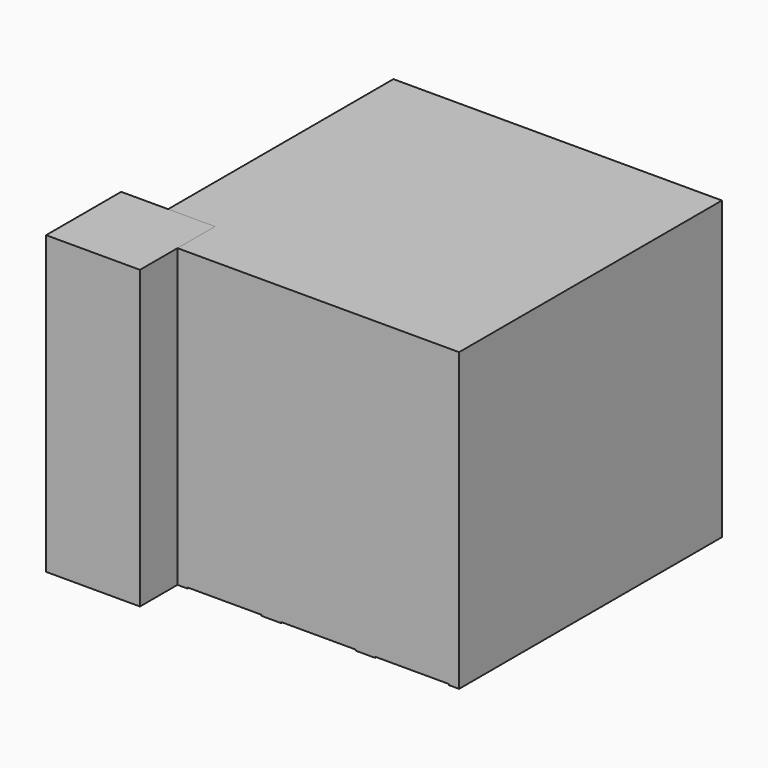
from build123d import *

# Parameters (mm, degrees)
CYLINDER017_R     = 0.6
CYLINDER017_DEPTH = 0.04
CYLINDER018_R     = 0.6
CYLINDER018_DEPTH = 0.04
CYLINDER019_R     = 0.6
CYLINDER019_DEPTH = 0.04
CYLINDER020_R     = 0.6
CYLINDER020_DEPTH = 0.04
BOX013_W          = 1.8
BOX013_H          = 3
BOX013_DEPTH      = 0.04
BOX012_W          = 3
BOX012_H          = 1.8
BOX012_DEPTH      = 0.04
CYLINDER021_R     = 0.6
CYLINDER021_DEPTH = 0.04
CYLINDER022_R     = 0.6
CYLINDER022_DEPTH = 0.04
CYLINDER023_R     = 0.6
CYLINDER023_DEPTH = 0.04
CYLINDER024_R     = 0.6
CYLINDER024_DEPTH = 0.04
BOX015_W          = 1.8
BOX015_H          = 3
BOX015_DEPTH      = 0.04
BOX014_W          = 3
BOX014_H          = 1.8
BOX014_DEPTH      = 0.04
CYLINDER025_R     = 0.6
CYLINDER025_DEPTH = 0.04
CYLINDER026_R     = 0.6
CYLINDER026_DEPTH = 0.04
CYLINDER027_R     = 0.6
CYLINDER027_DEPTH = 0.04
CYLINDER028_R     = 0.6
CYLINDER028_DEPTH = 0.04
BOX017_W          = 1.8
BOX017_H          = 3
BOX017_DEPTH      = 0.04
BOX016_W          = 3
BOX016_H          = 1.8
BOX016_DEPTH      = 0.04
CYLINDER029_R     = 0.6
CYLINDER029_DEPTH = 0.04
CYLINDER030_R     = 0.6
CYLINDER030_DEPTH = 0.04
CYLINDER031_R     = 0.6
CYLINDER031_DEPTH = 0.04
CYLINDER032_R     = 0.6
CYLINDER032_DEPTH = 0.04
BOX019_W          = 1.8
BOX019_H          = 3
BOX019_DEPTH      = 0.04
BOX018_W          = 3
BOX018_H          = 1.8
BOX018_DEPTH      = 0.04
CYLINDER033_R     = 0.6
CYLINDER033_DEPTH = 0.04
CYLINDER034_R     = 0.6
CYLINDER034_DEPTH = 0.04
CYLINDER035_R     = 0.6
CYLINDER035_DEPTH = 0.04
CYLINDER036_R     = 0.6
CYLINDER036_DEPTH = 0.04
BOX021_W          = 1.8
BOX021_H          = 3
BOX021_DEPTH      = 0.04
BOX020_W          = 3
BOX020_H          = 1.8
BOX020_DEPTH      = 0.04
CYLINDER037_R     = 0.6
CYLINDER037_DEPTH = 0.04
CYLINDER038_R     = 0.6
CYLINDER038_DEPTH = 0.04
CYLINDER039_R     = 0.6
CYLINDER039_DEPTH = 0.04
CYLINDER040_R     = 0.6
CYLINDER040_DEPTH = 0.04
BOX023_W          = 1.8
BOX023_H          = 3
BOX023_DEPTH      = 0.04
BOX022_W          = 3
BOX022_H          = 1.8
BOX022_DEPTH      = 0.04
CYLINDER041_R     = 0.6
CYLINDER041_DEPTH = 0.04
CYLINDER042_R     = 0.6
CYLINDER042_DEPTH = 0.04
CYLINDER043_R     = 0.6
CYLINDER043_DEPTH = 0.04
CYLINDER044_R     = 0.6
CYLINDER044_DEPTH = 0.04
BOX025_W          = 1.8
BOX025_H          = 3
BOX025_DEPTH      = 0.04
BOX024_W          = 3
BOX024_H          = 1.8
BOX024_DEPTH      = 0.04
CYLINDER045_R     = 0.6
CYLINDER045_DEPTH = 0.04
CYLINDER046_R     = 0.6
CYLINDER046_DEPTH = 0.04
CYLINDER047_R     = 0.6
CYLINDER047_DEPTH = 0.04
CYLINDER048_R     = 0.6
CYLINDER048_DEPTH = 0.04
BOX027_W          = 1.8
BOX027_H          = 3
BOX027_DEPTH      = 0.04
BOX026_W          = 3
BOX026_H          = 1.8
BOX026_DEPTH      = 0.04
CYLINDER049_R     = 0.6
CYLINDER049_DEPTH = 0.04
CYLINDER050_R     = 0.6
CYLINDER050_DEPTH = 0.04
CYLINDER051_R     = 0.6
CYLINDER051_DEPTH = 0.04
CYLINDER052_R     = 0.6
CYLINDER052_DEPTH = 0.04
BOX029_W          = 1.8
BOX029_H          = 3
BOX029_DEPTH      = 0.04
BOX028_W          = 3
BOX028_H          = 1.8
BOX028_DEPTH      = 0.04
CYLINDER053_R     = 0.6
CYLINDER053_DEPTH = 0.04
CYLINDER054_R     = 0.6
CYLINDER054_DEPTH = 0.04
CYLINDER055_R     = 0.6
CYLINDER055_DEPTH = 0.04
CYLINDER056_R     = 0.6
CYLINDER056_DEPTH = 0.04
BOX031_W          = 1.8
BOX031_H          = 3
BOX031_DEPTH      = 0.04
BOX030_W          = 3
BOX030_H          = 1.8
BOX030_DEPTH      = 0.04
CYLINDER057_R     = 0.6
CYLINDER057_DEPTH = 0.04
CYLINDER058_R     = 0.6
CYLINDER058_DEPTH = 0.04
CYLINDER059_R     = 0.6
CYLINDER059_DEPTH = 0.04
CYLINDER060_R     = 0.6
CYLINDER060_DEPTH = 0.04
BOX033_W          = 1.8
BOX033_H          = 3
BOX033_DEPTH      = 0.04
BOX032_W          = 3
BOX032_H          = 1.8
BOX032_DEPTH      = 0.04
CYLINDER061_R     = 0.6
CYLINDER061_DEPTH = 0.04
CYLINDER062_R     = 0.6
CYLINDER062_DEPTH = 0.04
CYLINDER063_R     = 0.6
CYLINDER063_DEPTH = 0.04
CYLINDER064_R     = 0.6
CYLINDER064_DEPTH = 0.04
BOX035_W          = 1.8
BOX035_H          = 3
BOX035_DEPTH      = 0.04
BOX034_W          = 3
BOX034_H          = 1.8
BOX034_DEPTH      = 0.04
CYLINDER065_R     = 0.6
CYLINDER065_DEPTH = 0.04
CYLINDER066_R     = 0.6
CYLINDER066_DEPTH = 0.04
CYLINDER067_R     = 0.6
CYLINDER067_DEPTH = 0.04
CYLINDER068_R     = 0.6
CYLINDER068_DEPTH = 0.04
BOX037_W          = 1.8
BOX037_H          = 3
BOX037_DEPTH      = 0.04
BOX036_W          = 3
BOX036_H          = 1.8
BOX036_DEPTH      = 0.04
CYLINDER069_R     = 0.6
CYLINDER069_DEPTH = 0.04
CYLINDER070_R     = 0.6
CYLINDER070_DEPTH = 0.04
CYLINDER071_R     = 0.6
CYLINDER071_DEPTH = 0.04
CYLINDER072_R     = 0.6
CYLINDER072_DEPTH = 0.04
BOX039_W          = 1.8
BOX039_H          = 3
BOX039_DEPTH      = 0.04
BOX038_W          = 3
BOX038_H          = 1.8
BOX038_DEPTH      = 0.04
CYLINDER073_R     = 0.6
CYLINDER073_DEPTH = 0.04
CYLINDER074_R     = 0.6
CYLINDER074_DEPTH = 0.04
CYLINDER075_R     = 0.6
CYLINDER075_DEPTH = 0.04
CYLINDER076_R     = 0.6
CYLINDER076_DEPTH = 0.04
BOX041_W          = 1.8
BOX041_H          = 3
BOX041_DEPTH      = 0.04
BOX040_W          = 3
BOX040_H          = 1.8
BOX040_DEPTH      = 0.04
BOX002_W          = 15.2
BOX002_H          = 15.2
BOX002_DEPTH      = 0.04
CYLINDER012_R     = 0.6
CYLINDER012_DEPTH = 0.04
CYLINDER013_R     = 0.6
CYLINDER013_DEPTH = 0.04
CYLINDER014_R     = 0.6
CYLINDER014_DEPTH = 0.04
CYLINDER016_R     = 0.6
CYLINDER016_DEPTH = 0.04
BOX011_W          = 1.8
BOX011_H          = 3
BOX011_DEPTH      = 0.04
BOX009_W          = 3
BOX009_H          = 1.8
BOX009_DEPTH      = 0.04
BOX042_W          = 13.3
BOX042_H          = 13.3
BOX042_DEPTH      = 12
BOX074_W          = 3.8
BOX074_H          = 3.8
BOX074_DEPTH      = 12


with BuildPart() as pixel_corner_bottom_right001:
    # Cylinder017 → Cylinder017 (new body)
    with BuildSketch(Plane(origin=(0.9, -0.9, 0), x_dir=(1, 0, 0), z_dir=(0, 0, 1))):
        Circle(CYLINDER017_R)
    extrude(amount=CYLINDER017_DEPTH)


with BuildPart() as pixel_corner_top_right001:
    # Cylinder018 → Cylinder018 (new body)
    with BuildSketch(Plane(origin=(0.9, 0.9, 0), x_dir=(1, 0, 0), z_dir=(0, 0, 1))):
        Circle(CYLINDER018_R)
    extrude(amount=CYLINDER018_DEPTH)


with BuildPart() as pixel_corner_bottom_left001:
    # Cylinder019 → Cylinder019 (new body)
    with BuildSketch(Plane(origin=(-0.9, -0.9, 0), x_dir=(1, 0, 0), z_dir=(0, 0, 1))):
        Circle(CYLINDER019_R)
    extrude(amount=CYLINDER019_DEPTH)


with BuildPart() as pixel_corner_top_left001:
    # Cylinder020 → Cylinder020 (new body)
    with BuildSketch(Plane(origin=(-0.9, 0.9, 0), x_dir=(1, 0, 0), z_dir=(0, 0, 1))):
        Circle(CYLINDER020_R)
    extrude(amount=CYLINDER020_DEPTH)


with BuildPart() as pixel_body_vertical001:
    # Box013 → Box013 (new body)
    with BuildSketch(Plane(origin=(-0.9, -1.5, 0), x_dir=(1, 0, 0), z_dir=(0, 0, 1))):
        with Locations((0.9, 1.5)):
            Rectangle(BOX013_W, BOX013_H)
    extrude(amount=BOX013_DEPTH)


with BuildPart() as fusion004:
    # Box012 → Box012 (new body)
    with BuildSketch(Plane(origin=(-1.5, -0.9, 0), x_dir=(1, 0, 0), z_dir=(0, 0, 1))):
        with Locations((1.5, 0.9)):
            Rectangle(BOX012_W, BOX012_H)
    extrude(amount=BOX012_DEPTH)

    # Fusion004: union pixel_corner_bottom_right001, pixel_corner_top_right001, pixel_corner_bottom_left001, pixel_corner_top_left001, pixel_body_vertical001
    add(pixel_corner_bottom_right001.part)
    add(pixel_corner_top_right001.part)
    add(pixel_corner_bottom_left001.part)
    add(pixel_corner_top_left001.part)
    add(pixel_body_vertical001.part)


with BuildPart() as fusion004_1:
    # Fusion004 placement: moved
    add(fusion004.part.moved(Location((0, 3.8, 0))))


with BuildPart() as pixel_corner_bottom_right002:
    # Cylinder021 → Cylinder021 (new body)
    with BuildSketch(Plane(origin=(0.9, -0.9, 0), x_dir=(1, 0, 0), z_dir=(0, 0, 1))):
        Circle(CYLINDER021_R)
    extrude(amount=CYLINDER021_DEPTH)


with BuildPart() as pixel_corner_top_right002:
    # Cylinder022 → Cylinder022 (new body)
    with BuildSketch(Plane(origin=(0.9, 0.9, 0), x_dir=(1, 0, 0), z_dir=(0, 0, 1))):
        Circle(CYLINDER022_R)
    extrude(amount=CYLINDER022_DEPTH)


with BuildPart() as pixel_corner_bottom_left002:
    # Cylinder023 → Cylinder023 (new body)
    with BuildSketch(Plane(origin=(-0.9, -0.9, 0), x_dir=(1, 0, 0), z_dir=(0, 0, 1))):
        Circle(CYLINDER023_R)
    extrude(amount=CYLINDER023_DEPTH)


with BuildPart() as pixel_corner_top_left002:
    # Cylinder024 → Cylinder024 (new body)
    with BuildSketch(Plane(origin=(-0.9, 0.9, 0), x_dir=(1, 0, 0), z_dir=(0, 0, 1))):
        Circle(CYLINDER024_R)
    extrude(amount=CYLINDER024_DEPTH)


with BuildPart() as pixel_body_vertical002:
    # Box015 → Box015 (new body)
    with BuildSketch(Plane(origin=(-0.9, -1.5, 0), x_dir=(1, 0, 0), z_dir=(0, 0, 1))):
        with Locations((0.9, 1.5)):
            Rectangle(BOX015_W, BOX015_H)
    extrude(amount=BOX015_DEPTH)


with BuildPart() as fusion005:
    # Box014 → Box014 (new body)
    with BuildSketch(Plane(origin=(-1.5, -0.9, 0), x_dir=(1, 0, 0), z_dir=(0, 0, 1))):
        with Locations((1.5, 0.9)):
            Rectangle(BOX014_W, BOX014_H)
    extrude(amount=BOX014_DEPTH)

    # Fusion005: union pixel_corner_bottom_right002, pixel_corner_top_right002, pixel_corner_bottom_left002, pixel_corner_top_left002, pixel_body_vertical002
    add(pixel_corner_bottom_right002.part)
    add(pixel_corner_top_right002.part)
    add(pixel_corner_bottom_left002.part)
    add(pixel_corner_top_left002.part)
    add(pixel_body_vertical002.part)


with BuildPart() as fusion005_1:
    # Fusion005 placement: moved
    add(fusion005.part.moved(Location((3.8, 0, 0))))


with BuildPart() as pixel_corner_bottom_right003:
    # Cylinder025 → Cylinder025 (new body)
    with BuildSketch(Plane(origin=(0.9, -0.9, 0), x_dir=(1, 0, 0), z_dir=(0, 0, 1))):
        Circle(CYLINDER025_R)
    extrude(amount=CYLINDER025_DEPTH)


with BuildPart() as pixel_corner_top_right003:
    # Cylinder026 → Cylinder026 (new body)
    with BuildSketch(Plane(origin=(0.9, 0.9, 0), x_dir=(1, 0, 0), z_dir=(0, 0, 1))):
        Circle(CYLINDER026_R)
    extrude(amount=CYLINDER026_DEPTH)


with BuildPart() as pixel_corner_bottom_left003:
    # Cylinder027 → Cylinder027 (new body)
    with BuildSketch(Plane(origin=(-0.9, -0.9, 0), x_dir=(1, 0, 0), z_dir=(0, 0, 1))):
        Circle(CYLINDER027_R)
    extrude(amount=CYLINDER027_DEPTH)


with BuildPart() as pixel_corner_top_left003:
    # Cylinder028 → Cylinder028 (new body)
    with BuildSketch(Plane(origin=(-0.9, 0.9, 0), x_dir=(1, 0, 0), z_dir=(0, 0, 1))):
        Circle(CYLINDER028_R)
    extrude(amount=CYLINDER028_DEPTH)


with BuildPart() as pixel_body_vertical003:
    # Box017 → Box017 (new body)
    with BuildSketch(Plane(origin=(-0.9, -1.5, 0), x_dir=(1, 0, 0), z_dir=(0, 0, 1))):
        with Locations((0.9, 1.5)):
            Rectangle(BOX017_W, BOX017_H)
    extrude(amount=BOX017_DEPTH)


with BuildPart() as fusion006:
    # Box016 → Box016 (new body)
    with BuildSketch(Plane(origin=(-1.5, -0.9, 0), x_dir=(1, 0, 0), z_dir=(0, 0, 1))):
        with Locations((1.5, 0.9)):
            Rectangle(BOX016_W, BOX016_H)
    extrude(amount=BOX016_DEPTH)

    # Fusion006: union pixel_corner_bottom_right003, pixel_corner_top_right003, pixel_corner_bottom_left003, pixel_corner_top_left003, pixel_body_vertical003
    add(pixel_corner_bottom_right003.part)
    add(pixel_corner_top_right003.part)
    add(pixel_corner_bottom_left003.part)
    add(pixel_corner_top_left003.part)
    add(pixel_body_vertical003.part)


with BuildPart() as fusion006_1:
    # Fusion006 placement: moved
    add(fusion006.part.moved(Location((7.6, 0, 0))))


with BuildPart() as pixel_corner_bottom_right004:
    # Cylinder029 → Cylinder029 (new body)
    with BuildSketch(Plane(origin=(0.9, -0.9, 0), x_dir=(1, 0, 0), z_dir=(0, 0, 1))):
        Circle(CYLINDER029_R)
    extrude(amount=CYLINDER029_DEPTH)


with BuildPart() as pixel_corner_top_right004:
    # Cylinder030 → Cylinder030 (new body)
    with BuildSketch(Plane(origin=(0.9, 0.9, 0), x_dir=(1, 0, 0), z_dir=(0, 0, 1))):
        Circle(CYLINDER030_R)
    extrude(amount=CYLINDER030_DEPTH)


with BuildPart() as pixel_corner_bottom_left004:
    # Cylinder031 → Cylinder031 (new body)
    with BuildSketch(Plane(origin=(-0.9, -0.9, 0), x_dir=(1, 0, 0), z_dir=(0, 0, 1))):
        Circle(CYLINDER031_R)
    extrude(amount=CYLINDER031_DEPTH)


with BuildPart() as pixel_corner_top_left004:
    # Cylinder032 → Cylinder032 (new body)
    with BuildSketch(Plane(origin=(-0.9, 0.9, 0), x_dir=(1, 0, 0), z_dir=(0, 0, 1))):
        Circle(CYLINDER032_R)
    extrude(amount=CYLINDER032_DEPTH)


with BuildPart() as pixel_body_vertical004:
    # Box019 → Box019 (new body)
    with BuildSketch(Plane(origin=(-0.9, -1.5, 0), x_dir=(1, 0, 0), z_dir=(0, 0, 1))):
        with Locations((0.9, 1.5)):
            Rectangle(BOX019_W, BOX019_H)
    extrude(amount=BOX019_DEPTH)


with BuildPart() as fusion007:
    # Box018 → Box018 (new body)
    with BuildSketch(Plane(origin=(-1.5, -0.9, 0), x_dir=(1, 0, 0), z_dir=(0, 0, 1))):
        with Locations((1.5, 0.9)):
            Rectangle(BOX018_W, BOX018_H)
    extrude(amount=BOX018_DEPTH)

    # Fusion007: union pixel_corner_bottom_right004, pixel_corner_top_right004, pixel_corner_bottom_left004, pixel_corner_top_left004, pixel_body_vertical004
    add(pixel_corner_bottom_right004.part)
    add(pixel_corner_top_right004.part)
    add(pixel_corner_bottom_left004.part)
    add(pixel_corner_top_left004.part)
    add(pixel_body_vertical004.part)


with BuildPart() as fusion007_1:
    # Fusion007 placement: moved
    add(fusion007.part.moved(Location((11.4, 0, 0))))


with BuildPart() as pixel_corner_bottom_right005:
    # Cylinder033 → Cylinder033 (new body)
    with BuildSketch(Plane(origin=(0.9, -0.9, 0), x_dir=(1, 0, 0), z_dir=(0, 0, 1))):
        Circle(CYLINDER033_R)
    extrude(amount=CYLINDER033_DEPTH)


with BuildPart() as pixel_corner_top_right005:
    # Cylinder034 → Cylinder034 (new body)
    with BuildSketch(Plane(origin=(0.9, 0.9, 0), x_dir=(1, 0, 0), z_dir=(0, 0, 1))):
        Circle(CYLINDER034_R)
    extrude(amount=CYLINDER034_DEPTH)


with BuildPart() as pixel_corner_bottom_left005:
    # Cylinder035 → Cylinder035 (new body)
    with BuildSketch(Plane(origin=(-0.9, -0.9, 0), x_dir=(1, 0, 0), z_dir=(0, 0, 1))):
        Circle(CYLINDER035_R)
    extrude(amount=CYLINDER035_DEPTH)


with BuildPart() as pixel_corner_top_left005:
    # Cylinder036 → Cylinder036 (new body)
    with BuildSketch(Plane(origin=(-0.9, 0.9, 0), x_dir=(1, 0, 0), z_dir=(0, 0, 1))):
        Circle(CYLINDER036_R)
    extrude(amount=CYLINDER036_DEPTH)


with BuildPart() as pixel_body_vertical005:
    # Box021 → Box021 (new body)
    with BuildSketch(Plane(origin=(-0.9, -1.5, 0), x_dir=(1, 0, 0), z_dir=(0, 0, 1))):
        with Locations((0.9, 1.5)):
            Rectangle(BOX021_W, BOX021_H)
    extrude(amount=BOX021_DEPTH)


with BuildPart() as fusion008:
    # Box020 → Box020 (new body)
    with BuildSketch(Plane(origin=(-1.5, -0.9, 0), x_dir=(1, 0, 0), z_dir=(0, 0, 1))):
        with Locations((1.5, 0.9)):
            Rectangle(BOX020_W, BOX020_H)
    extrude(amount=BOX020_DEPTH)

    # Fusion008: union pixel_corner_bottom_right005, pixel_corner_top_right005, pixel_corner_bottom_left005, pixel_corner_top_left005, pixel_body_vertical005
    add(pixel_corner_bottom_right005.part)
    add(pixel_corner_top_right005.part)
    add(pixel_corner_bottom_left005.part)
    add(pixel_corner_top_left005.part)
    add(pixel_body_vertical005.part)


with BuildPart() as fusion008_1:
    # Fusion008 placement: moved
    add(fusion008.part.moved(Location((0, 7.6, 0))))


with BuildPart() as pixel_corner_bottom_right006:
    # Cylinder037 → Cylinder037 (new body)
    with BuildSketch(Plane(origin=(0.9, -0.9, 0), x_dir=(1, 0, 0), z_dir=(0, 0, 1))):
        Circle(CYLINDER037_R)
    extrude(amount=CYLINDER037_DEPTH)


with BuildPart() as pixel_corner_top_right006:
    # Cylinder038 → Cylinder038 (new body)
    with BuildSketch(Plane(origin=(0.9, 0.9, 0), x_dir=(1, 0, 0), z_dir=(0, 0, 1))):
        Circle(CYLINDER038_R)
    extrude(amount=CYLINDER038_DEPTH)


with BuildPart() as pixel_corner_bottom_left006:
    # Cylinder039 → Cylinder039 (new body)
    with BuildSketch(Plane(origin=(-0.9, -0.9, 0), x_dir=(1, 0, 0), z_dir=(0, 0, 1))):
        Circle(CYLINDER039_R)
    extrude(amount=CYLINDER039_DEPTH)


with BuildPart() as pixel_corner_top_left006:
    # Cylinder040 → Cylinder040 (new body)
    with BuildSketch(Plane(origin=(-0.9, 0.9, 0), x_dir=(1, 0, 0), z_dir=(0, 0, 1))):
        Circle(CYLINDER040_R)
    extrude(amount=CYLINDER040_DEPTH)


with BuildPart() as pixel_body_vertical006:
    # Box023 → Box023 (new body)
    with BuildSketch(Plane(origin=(-0.9, -1.5, 0), x_dir=(1, 0, 0), z_dir=(0, 0, 1))):
        with Locations((0.9, 1.5)):
            Rectangle(BOX023_W, BOX023_H)
    extrude(amount=BOX023_DEPTH)


with BuildPart() as fusion009:
    # Box022 → Box022 (new body)
    with BuildSketch(Plane(origin=(-1.5, -0.9, 0), x_dir=(1, 0, 0), z_dir=(0, 0, 1))):
        with Locations((1.5, 0.9)):
            Rectangle(BOX022_W, BOX022_H)
    extrude(amount=BOX022_DEPTH)

    # Fusion009: union pixel_corner_bottom_right006, pixel_corner_top_right006, pixel_corner_bottom_left006, pixel_corner_top_left006, pixel_body_vertical006
    add(pixel_corner_bottom_right006.part)
    add(pixel_corner_top_right006.part)
    add(pixel_corner_bottom_left006.part)
    add(pixel_corner_top_left006.part)
    add(pixel_body_vertical006.part)


with BuildPart() as fusion009_1:
    # Fusion009 placement: moved
    add(fusion009.part.moved(Location((0, 11.4, 0))))


with BuildPart() as pixel_corner_bottom_right007:
    # Cylinder041 → Cylinder041 (new body)
    with BuildSketch(Plane(origin=(0.9, -0.9, 0), x_dir=(1, 0, 0), z_dir=(0, 0, 1))):
        Circle(CYLINDER041_R)
    extrude(amount=CYLINDER041_DEPTH)


with BuildPart() as pixel_corner_top_right007:
    # Cylinder042 → Cylinder042 (new body)
    with BuildSketch(Plane(origin=(0.9, 0.9, 0), x_dir=(1, 0, 0), z_dir=(0, 0, 1))):
        Circle(CYLINDER042_R)
    extrude(amount=CYLINDER042_DEPTH)


with BuildPart() as pixel_corner_bottom_left007:
    # Cylinder043 → Cylinder043 (new body)
    with BuildSketch(Plane(origin=(-0.9, -0.9, 0), x_dir=(1, 0, 0), z_dir=(0, 0, 1))):
        Circle(CYLINDER043_R)
    extrude(amount=CYLINDER043_DEPTH)


with BuildPart() as pixel_corner_top_left007:
    # Cylinder044 → Cylinder044 (new body)
    with BuildSketch(Plane(origin=(-0.9, 0.9, 0), x_dir=(1, 0, 0), z_dir=(0, 0, 1))):
        Circle(CYLINDER044_R)
    extrude(amount=CYLINDER044_DEPTH)


with BuildPart() as pixel_body_vertical007:
    # Box025 → Box025 (new body)
    with BuildSketch(Plane(origin=(-0.9, -1.5, 0), x_dir=(1, 0, 0), z_dir=(0, 0, 1))):
        with Locations((0.9, 1.5)):
            Rectangle(BOX025_W, BOX025_H)
    extrude(amount=BOX025_DEPTH)


with BuildPart() as fusion010:
    # Box024 → Box024 (new body)
    with BuildSketch(Plane(origin=(-1.5, -0.9, 0), x_dir=(1, 0, 0), z_dir=(0, 0, 1))):
        with Locations((1.5, 0.9)):
            Rectangle(BOX024_W, BOX024_H)
    extrude(amount=BOX024_DEPTH)

    # Fusion010: union pixel_corner_bottom_right007, pixel_corner_top_right007, pixel_corner_bottom_left007, pixel_corner_top_left007, pixel_body_vertical007
    add(pixel_corner_bottom_right007.part)
    add(pixel_corner_top_right007.part)
    add(pixel_corner_bottom_left007.part)
    add(pixel_corner_top_left007.part)
    add(pixel_body_vertical007.part)


with BuildPart() as fusion010_1:
    # Fusion010 placement: moved
    add(fusion010.part.moved(Location((3.8, 3.8, 0))))


with BuildPart() as pixel_corner_bottom_right008:
    # Cylinder045 → Cylinder045 (new body)
    with BuildSketch(Plane(origin=(0.9, -0.9, 0), x_dir=(1, 0, 0), z_dir=(0, 0, 1))):
        Circle(CYLINDER045_R)
    extrude(amount=CYLINDER045_DEPTH)


with BuildPart() as pixel_corner_top_right008:
    # Cylinder046 → Cylinder046 (new body)
    with BuildSketch(Plane(origin=(0.9, 0.9, 0), x_dir=(1, 0, 0), z_dir=(0, 0, 1))):
        Circle(CYLINDER046_R)
    extrude(amount=CYLINDER046_DEPTH)


with BuildPart() as pixel_corner_bottom_left008:
    # Cylinder047 → Cylinder047 (new body)
    with BuildSketch(Plane(origin=(-0.9, -0.9, 0), x_dir=(1, 0, 0), z_dir=(0, 0, 1))):
        Circle(CYLINDER047_R)
    extrude(amount=CYLINDER047_DEPTH)


with BuildPart() as pixel_corner_top_left008:
    # Cylinder048 → Cylinder048 (new body)
    with BuildSketch(Plane(origin=(-0.9, 0.9, 0), x_dir=(1, 0, 0), z_dir=(0, 0, 1))):
        Circle(CYLINDER048_R)
    extrude(amount=CYLINDER048_DEPTH)


with BuildPart() as pixel_body_vertical008:
    # Box027 → Box027 (new body)
    with BuildSketch(Plane(origin=(-0.9, -1.5, 0), x_dir=(1, 0, 0), z_dir=(0, 0, 1))):
        with Locations((0.9, 1.5)):
            Rectangle(BOX027_W, BOX027_H)
    extrude(amount=BOX027_DEPTH)


with BuildPart() as fusion011:
    # Box026 → Box026 (new body)
    with BuildSketch(Plane(origin=(-1.5, -0.9, 0), x_dir=(1, 0, 0), z_dir=(0, 0, 1))):
        with Locations((1.5, 0.9)):
            Rectangle(BOX026_W, BOX026_H)
    extrude(amount=BOX026_DEPTH)

    # Fusion011: union pixel_corner_bottom_right008, pixel_corner_top_right008, pixel_corner_bottom_left008, pixel_corner_top_left008, pixel_body_vertical008
    add(pixel_corner_bottom_right008.part)
    add(pixel_corner_top_right008.part)
    add(pixel_corner_bottom_left008.part)
    add(pixel_corner_top_left008.part)
    add(pixel_body_vertical008.part)


with BuildPart() as fusion011_1:
    # Fusion011 placement: moved
    add(fusion011.part.moved(Location((3.8, 7.6, 0))))


with BuildPart() as pixel_corner_bottom_right009:
    # Cylinder049 → Cylinder049 (new body)
    with BuildSketch(Plane(origin=(0.9, -0.9, 0), x_dir=(1, 0, 0), z_dir=(0, 0, 1))):
        Circle(CYLINDER049_R)
    extrude(amount=CYLINDER049_DEPTH)


with BuildPart() as pixel_corner_top_right009:
    # Cylinder050 → Cylinder050 (new body)
    with BuildSketch(Plane(origin=(0.9, 0.9, 0), x_dir=(1, 0, 0), z_dir=(0, 0, 1))):
        Circle(CYLINDER050_R)
    extrude(amount=CYLINDER050_DEPTH)


with BuildPart() as pixel_corner_bottom_left009:
    # Cylinder051 → Cylinder051 (new body)
    with BuildSketch(Plane(origin=(-0.9, -0.9, 0), x_dir=(1, 0, 0), z_dir=(0, 0, 1))):
        Circle(CYLINDER051_R)
    extrude(amount=CYLINDER051_DEPTH)


with BuildPart() as pixel_corner_top_left009:
    # Cylinder052 → Cylinder052 (new body)
    with BuildSketch(Plane(origin=(-0.9, 0.9, 0), x_dir=(1, 0, 0), z_dir=(0, 0, 1))):
        Circle(CYLINDER052_R)
    extrude(amount=CYLINDER052_DEPTH)


with BuildPart() as pixel_body_vertical009:
    # Box029 → Box029 (new body)
    with BuildSketch(Plane(origin=(-0.9, -1.5, 0), x_dir=(1, 0, 0), z_dir=(0, 0, 1))):
        with Locations((0.9, 1.5)):
            Rectangle(BOX029_W, BOX029_H)
    extrude(amount=BOX029_DEPTH)


with BuildPart() as fusion012:
    # Box028 → Box028 (new body)
    with BuildSketch(Plane(origin=(-1.5, -0.9, 0), x_dir=(1, 0, 0), z_dir=(0, 0, 1))):
        with Locations((1.5, 0.9)):
            Rectangle(BOX028_W, BOX028_H)
    extrude(amount=BOX028_DEPTH)

    # Fusion012: union pixel_corner_bottom_right009, pixel_corner_top_right009, pixel_corner_bottom_left009, pixel_corner_top_left009, pixel_body_vertical009
    add(pixel_corner_bottom_right009.part)
    add(pixel_corner_top_right009.part)
    add(pixel_corner_bottom_left009.part)
    add(pixel_corner_top_left009.part)
    add(pixel_body_vertical009.part)


with BuildPart() as fusion012_1:
    # Fusion012 placement: moved
    add(fusion012.part.moved(Location((3.8, 11.4, 0))))


with BuildPart() as pixel_corner_bottom_right010:
    # Cylinder053 → Cylinder053 (new body)
    with BuildSketch(Plane(origin=(0.9, -0.9, 0), x_dir=(1, 0, 0), z_dir=(0, 0, 1))):
        Circle(CYLINDER053_R)
    extrude(amount=CYLINDER053_DEPTH)


with BuildPart() as pixel_corner_top_right010:
    # Cylinder054 → Cylinder054 (new body)
    with BuildSketch(Plane(origin=(0.9, 0.9, 0), x_dir=(1, 0, 0), z_dir=(0, 0, 1))):
        Circle(CYLINDER054_R)
    extrude(amount=CYLINDER054_DEPTH)


with BuildPart() as pixel_corner_bottom_left010:
    # Cylinder055 → Cylinder055 (new body)
    with BuildSketch(Plane(origin=(-0.9, -0.9, 0), x_dir=(1, 0, 0), z_dir=(0, 0, 1))):
        Circle(CYLINDER055_R)
    extrude(amount=CYLINDER055_DEPTH)


with BuildPart() as pixel_corner_top_left010:
    # Cylinder056 → Cylinder056 (new body)
    with BuildSketch(Plane(origin=(-0.9, 0.9, 0), x_dir=(1, 0, 0), z_dir=(0, 0, 1))):
        Circle(CYLINDER056_R)
    extrude(amount=CYLINDER056_DEPTH)


with BuildPart() as pixel_body_vertical010:
    # Box031 → Box031 (new body)
    with BuildSketch(Plane(origin=(-0.9, -1.5, 0), x_dir=(1, 0, 0), z_dir=(0, 0, 1))):
        with Locations((0.9, 1.5)):
            Rectangle(BOX031_W, BOX031_H)
    extrude(amount=BOX031_DEPTH)


with BuildPart() as fusion013:
    # Box030 → Box030 (new body)
    with BuildSketch(Plane(origin=(-1.5, -0.9, 0), x_dir=(1, 0, 0), z_dir=(0, 0, 1))):
        with Locations((1.5, 0.9)):
            Rectangle(BOX030_W, BOX030_H)
    extrude(amount=BOX030_DEPTH)

    # Fusion013: union pixel_corner_bottom_right010, pixel_corner_top_right010, pixel_corner_bottom_left010, pixel_corner_top_left010, pixel_body_vertical010
    add(pixel_corner_bottom_right010.part)
    add(pixel_corner_top_right010.part)
    add(pixel_corner_bottom_left010.part)
    add(pixel_corner_top_left010.part)
    add(pixel_body_vertical010.part)


with BuildPart() as fusion013_1:
    # Fusion013 placement: moved
    add(fusion013.part.moved(Location((7.6, 3.8, 0))))


with BuildPart() as pixel_corner_bottom_right011:
    # Cylinder057 → Cylinder057 (new body)
    with BuildSketch(Plane(origin=(0.9, -0.9, 0), x_dir=(1, 0, 0), z_dir=(0, 0, 1))):
        Circle(CYLINDER057_R)
    extrude(amount=CYLINDER057_DEPTH)


with BuildPart() as pixel_corner_top_right011:
    # Cylinder058 → Cylinder058 (new body)
    with BuildSketch(Plane(origin=(0.9, 0.9, 0), x_dir=(1, 0, 0), z_dir=(0, 0, 1))):
        Circle(CYLINDER058_R)
    extrude(amount=CYLINDER058_DEPTH)


with BuildPart() as pixel_corner_bottom_left011:
    # Cylinder059 → Cylinder059 (new body)
    with BuildSketch(Plane(origin=(-0.9, -0.9, 0), x_dir=(1, 0, 0), z_dir=(0, 0, 1))):
        Circle(CYLINDER059_R)
    extrude(amount=CYLINDER059_DEPTH)


with BuildPart() as pixel_corner_top_left011:
    # Cylinder060 → Cylinder060 (new body)
    with BuildSketch(Plane(origin=(-0.9, 0.9, 0), x_dir=(1, 0, 0), z_dir=(0, 0, 1))):
        Circle(CYLINDER060_R)
    extrude(amount=CYLINDER060_DEPTH)


with BuildPart() as pixel_body_vertical011:
    # Box033 → Box033 (new body)
    with BuildSketch(Plane(origin=(-0.9, -1.5, 0), x_dir=(1, 0, 0), z_dir=(0, 0, 1))):
        with Locations((0.9, 1.5)):
            Rectangle(BOX033_W, BOX033_H)
    extrude(amount=BOX033_DEPTH)


with BuildPart() as fusion014:
    # Box032 → Box032 (new body)
    with BuildSketch(Plane(origin=(-1.5, -0.9, 0), x_dir=(1, 0, 0), z_dir=(0, 0, 1))):
        with Locations((1.5, 0.9)):
            Rectangle(BOX032_W, BOX032_H)
    extrude(amount=BOX032_DEPTH)

    # Fusion014: union pixel_corner_bottom_right011, pixel_corner_top_right011, pixel_corner_bottom_left011, pixel_corner_top_left011, pixel_body_vertical011
    add(pixel_corner_bottom_right011.part)
    add(pixel_corner_top_right011.part)
    add(pixel_corner_bottom_left011.part)
    add(pixel_corner_top_left011.part)
    add(pixel_body_vertical011.part)


with BuildPart() as fusion014_1:
    # Fusion014 placement: moved
    add(fusion014.part.moved(Location((7.6, 7.6, 0))))


with BuildPart() as pixel_corner_bottom_right012:
    # Cylinder061 → Cylinder061 (new body)
    with BuildSketch(Plane(origin=(0.9, -0.9, 0), x_dir=(1, 0, 0), z_dir=(0, 0, 1))):
        Circle(CYLINDER061_R)
    extrude(amount=CYLINDER061_DEPTH)


with BuildPart() as pixel_corner_top_right012:
    # Cylinder062 → Cylinder062 (new body)
    with BuildSketch(Plane(origin=(0.9, 0.9, 0), x_dir=(1, 0, 0), z_dir=(0, 0, 1))):
        Circle(CYLINDER062_R)
    extrude(amount=CYLINDER062_DEPTH)


with BuildPart() as pixel_corner_bottom_left012:
    # Cylinder063 → Cylinder063 (new body)
    with BuildSketch(Plane(origin=(-0.9, -0.9, 0), x_dir=(1, 0, 0), z_dir=(0, 0, 1))):
        Circle(CYLINDER063_R)
    extrude(amount=CYLINDER063_DEPTH)


with BuildPart() as pixel_corner_top_left012:
    # Cylinder064 → Cylinder064 (new body)
    with BuildSketch(Plane(origin=(-0.9, 0.9, 0), x_dir=(1, 0, 0), z_dir=(0, 0, 1))):
        Circle(CYLINDER064_R)
    extrude(amount=CYLINDER064_DEPTH)


with BuildPart() as pixel_body_vertical012:
    # Box035 → Box035 (new body)
    with BuildSketch(Plane(origin=(-0.9, -1.5, 0), x_dir=(1, 0, 0), z_dir=(0, 0, 1))):
        with Locations((0.9, 1.5)):
            Rectangle(BOX035_W, BOX035_H)
    extrude(amount=BOX035_DEPTH)


with BuildPart() as fusion015:
    # Box034 → Box034 (new body)
    with BuildSketch(Plane(origin=(-1.5, -0.9, 0), x_dir=(1, 0, 0), z_dir=(0, 0, 1))):
        with Locations((1.5, 0.9)):
            Rectangle(BOX034_W, BOX034_H)
    extrude(amount=BOX034_DEPTH)

    # Fusion015: union pixel_corner_bottom_right012, pixel_corner_top_right012, pixel_corner_bottom_left012, pixel_corner_top_left012, pixel_body_vertical012
    add(pixel_corner_bottom_right012.part)
    add(pixel_corner_top_right012.part)
    add(pixel_corner_bottom_left012.part)
    add(pixel_corner_top_left012.part)
    add(pixel_body_vertical012.part)


with BuildPart() as fusion015_1:
    # Fusion015 placement: moved
    add(fusion015.part.moved(Location((7.6, 11.4, 0))))


with BuildPart() as pixel_corner_bottom_right013:
    # Cylinder065 → Cylinder065 (new body)
    with BuildSketch(Plane(origin=(0.9, -0.9, 0), x_dir=(1, 0, 0), z_dir=(0, 0, 1))):
        Circle(CYLINDER065_R)
    extrude(amount=CYLINDER065_DEPTH)


with BuildPart() as pixel_corner_top_right013:
    # Cylinder066 → Cylinder066 (new body)
    with BuildSketch(Plane(origin=(0.9, 0.9, 0), x_dir=(1, 0, 0), z_dir=(0, 0, 1))):
        Circle(CYLINDER066_R)
    extrude(amount=CYLINDER066_DEPTH)


with BuildPart() as pixel_corner_bottom_left013:
    # Cylinder067 → Cylinder067 (new body)
    with BuildSketch(Plane(origin=(-0.9, -0.9, 0), x_dir=(1, 0, 0), z_dir=(0, 0, 1))):
        Circle(CYLINDER067_R)
    extrude(amount=CYLINDER067_DEPTH)


with BuildPart() as pixel_corner_top_left013:
    # Cylinder068 → Cylinder068 (new body)
    with BuildSketch(Plane(origin=(-0.9, 0.9, 0), x_dir=(1, 0, 0), z_dir=(0, 0, 1))):
        Circle(CYLINDER068_R)
    extrude(amount=CYLINDER068_DEPTH)


with BuildPart() as pixel_body_vertical013:
    # Box037 → Box037 (new body)
    with BuildSketch(Plane(origin=(-0.9, -1.5, 0), x_dir=(1, 0, 0), z_dir=(0, 0, 1))):
        with Locations((0.9, 1.5)):
            Rectangle(BOX037_W, BOX037_H)
    extrude(amount=BOX037_DEPTH)


with BuildPart() as fusion016:
    # Box036 → Box036 (new body)
    with BuildSketch(Plane(origin=(-1.5, -0.9, 0), x_dir=(1, 0, 0), z_dir=(0, 0, 1))):
        with Locations((1.5, 0.9)):
            Rectangle(BOX036_W, BOX036_H)
    extrude(amount=BOX036_DEPTH)

    # Fusion016: union pixel_corner_bottom_right013, pixel_corner_top_right013, pixel_corner_bottom_left013, pixel_corner_top_left013, pixel_body_vertical013
    add(pixel_corner_bottom_right013.part)
    add(pixel_corner_top_right013.part)
    add(pixel_corner_bottom_left013.part)
    add(pixel_corner_top_left013.part)
    add(pixel_body_vertical013.part)


with BuildPart() as fusion016_1:
    # Fusion016 placement: moved
    add(fusion016.part.moved(Location((11.4, 3.8, 0))))


with BuildPart() as pixel_corner_bottom_right014:
    # Cylinder069 → Cylinder069 (new body)
    with BuildSketch(Plane(origin=(0.9, -0.9, 0), x_dir=(1, 0, 0), z_dir=(0, 0, 1))):
        Circle(CYLINDER069_R)
    extrude(amount=CYLINDER069_DEPTH)


with BuildPart() as pixel_corner_top_right014:
    # Cylinder070 → Cylinder070 (new body)
    with BuildSketch(Plane(origin=(0.9, 0.9, 0), x_dir=(1, 0, 0), z_dir=(0, 0, 1))):
        Circle(CYLINDER070_R)
    extrude(amount=CYLINDER070_DEPTH)


with BuildPart() as pixel_corner_bottom_left014:
    # Cylinder071 → Cylinder071 (new body)
    with BuildSketch(Plane(origin=(-0.9, -0.9, 0), x_dir=(1, 0, 0), z_dir=(0, 0, 1))):
        Circle(CYLINDER071_R)
    extrude(amount=CYLINDER071_DEPTH)


with BuildPart() as pixel_corner_top_left014:
    # Cylinder072 → Cylinder072 (new body)
    with BuildSketch(Plane(origin=(-0.9, 0.9, 0), x_dir=(1, 0, 0), z_dir=(0, 0, 1))):
        Circle(CYLINDER072_R)
    extrude(amount=CYLINDER072_DEPTH)


with BuildPart() as pixel_body_vertical014:
    # Box039 → Box039 (new body)
    with BuildSketch(Plane(origin=(-0.9, -1.5, 0), x_dir=(1, 0, 0), z_dir=(0, 0, 1))):
        with Locations((0.9, 1.5)):
            Rectangle(BOX039_W, BOX039_H)
    extrude(amount=BOX039_DEPTH)


with BuildPart() as fusion017:
    # Box038 → Box038 (new body)
    with BuildSketch(Plane(origin=(-1.5, -0.9, 0), x_dir=(1, 0, 0), z_dir=(0, 0, 1))):
        with Locations((1.5, 0.9)):
            Rectangle(BOX038_W, BOX038_H)
    extrude(amount=BOX038_DEPTH)

    # Fusion017: union pixel_corner_bottom_right014, pixel_corner_top_right014, pixel_corner_bottom_left014, pixel_corner_top_left014, pixel_body_vertical014
    add(pixel_corner_bottom_right014.part)
    add(pixel_corner_top_right014.part)
    add(pixel_corner_bottom_left014.part)
    add(pixel_corner_top_left014.part)
    add(pixel_body_vertical014.part)


with BuildPart() as fusion017_1:
    # Fusion017 placement: moved
    add(fusion017.part.moved(Location((11.4, 7.6, 0))))


with BuildPart() as pixel_corner_bottom_right015:
    # Cylinder073 → Cylinder073 (new body)
    with BuildSketch(Plane(origin=(0.9, -0.9, 0), x_dir=(1, 0, 0), z_dir=(0, 0, 1))):
        Circle(CYLINDER073_R)
    extrude(amount=CYLINDER073_DEPTH)


with BuildPart() as pixel_corner_top_right015:
    # Cylinder074 → Cylinder074 (new body)
    with BuildSketch(Plane(origin=(0.9, 0.9, 0), x_dir=(1, 0, 0), z_dir=(0, 0, 1))):
        Circle(CYLINDER074_R)
    extrude(amount=CYLINDER074_DEPTH)


with BuildPart() as pixel_corner_bottom_left015:
    # Cylinder075 → Cylinder075 (new body)
    with BuildSketch(Plane(origin=(-0.9, -0.9, 0), x_dir=(1, 0, 0), z_dir=(0, 0, 1))):
        Circle(CYLINDER075_R)
    extrude(amount=CYLINDER075_DEPTH)


with BuildPart() as pixel_corner_top_left015:
    # Cylinder076 → Cylinder076 (new body)
    with BuildSketch(Plane(origin=(-0.9, 0.9, 0), x_dir=(1, 0, 0), z_dir=(0, 0, 1))):
        Circle(CYLINDER076_R)
    extrude(amount=CYLINDER076_DEPTH)


with BuildPart() as pixel_body_vertical015:
    # Box041 → Box041 (new body)
    with BuildSketch(Plane(origin=(-0.9, -1.5, 0), x_dir=(1, 0, 0), z_dir=(0, 0, 1))):
        with Locations((0.9, 1.5)):
            Rectangle(BOX041_W, BOX041_H)
    extrude(amount=BOX041_DEPTH)


with BuildPart() as fusion018:
    # Box040 → Box040 (new body)
    with BuildSketch(Plane(origin=(-1.5, -0.9, 0), x_dir=(1, 0, 0), z_dir=(0, 0, 1))):
        with Locations((1.5, 0.9)):
            Rectangle(BOX040_W, BOX040_H)
    extrude(amount=BOX040_DEPTH)

    # Fusion018: union pixel_corner_bottom_right015, pixel_corner_top_right015, pixel_corner_bottom_left015, pixel_corner_top_left015, pixel_body_vertical015
    add(pixel_corner_bottom_right015.part)
    add(pixel_corner_top_right015.part)
    add(pixel_corner_bottom_left015.part)
    add(pixel_corner_top_left015.part)
    add(pixel_body_vertical015.part)


with BuildPart() as fusion018_1:
    # Fusion018 placement: moved
    add(fusion018.part.moved(Location((11.4, 11.4, 0))))


with BuildPart() as back_plane:
    # Box002 → Box002 (new body)
    with BuildSketch(Plane(origin=(-1.9, -1.9, -0.04), x_dir=(1, 0, 0), z_dir=(0, 0, 1))):
        with Locations((7.6, 7.6)):
            Rectangle(BOX002_W, BOX002_H)
    extrude(amount=BOX002_DEPTH)


with BuildPart() as pixel_corner_bottom_right:
    # Cylinder012 → Cylinder012 (new body)
    with BuildSketch(Plane(origin=(0.9, -0.9, 0), x_dir=(1, 0, 0), z_dir=(0, 0, 1))):
        Circle(CYLINDER012_R)
    extrude(amount=CYLINDER012_DEPTH)


with BuildPart() as pixel_corner_top_right:
    # Cylinder013 → Cylinder013 (new body)
    with BuildSketch(Plane(origin=(0.9, 0.9, 0), x_dir=(1, 0, 0), z_dir=(0, 0, 1))):
        Circle(CYLINDER013_R)
    extrude(amount=CYLINDER013_DEPTH)


with BuildPart() as pixel_corner_bottom_left:
    # Cylinder014 → Cylinder014 (new body)
    with BuildSketch(Plane(origin=(-0.9, -0.9, 0), x_dir=(1, 0, 0), z_dir=(0, 0, 1))):
        Circle(CYLINDER014_R)
    extrude(amount=CYLINDER014_DEPTH)


with BuildPart() as pixel_corner_top_left:
    # Cylinder016 → Cylinder016 (new body)
    with BuildSketch(Plane(origin=(-0.9, 0.9, 0), x_dir=(1, 0, 0), z_dir=(0, 0, 1))):
        Circle(CYLINDER016_R)
    extrude(amount=CYLINDER016_DEPTH)


with BuildPart() as pixel_body_vertical:
    # Box011 → Box011 (new body)
    with BuildSketch(Plane(origin=(-0.9, -1.5, 0), x_dir=(1, 0, 0), z_dir=(0, 0, 1))):
        with Locations((0.9, 1.5)):
            Rectangle(BOX011_W, BOX011_H)
    extrude(amount=BOX011_DEPTH)


with BuildPart() as obj1:
    # Box009 → Box009 (new body)
    with BuildSketch(Plane(origin=(-1.5, -0.9, 0), x_dir=(1, 0, 0), z_dir=(0, 0, 1))):
        with Locations((1.5, 0.9)):
            Rectangle(BOX009_W, BOX009_H)
    extrude(amount=BOX009_DEPTH)

    # Fusion003: union pixel_corner_bottom_right, pixel_corner_top_right, pixel_corner_bottom_left, pixel_corner_top_left, pixel_body_vertical
    add(pixel_corner_bottom_right.part)
    add(pixel_corner_top_right.part)
    add(pixel_corner_bottom_left.part)
    add(pixel_corner_top_left.part)
    add(pixel_body_vertical.part)

    # Compound: union Fusion004, Fusion005, Fusion006, Fusion007, Fusion008, Fusion009, Fusion010, Fusion011, Fusion012, Fusion013, Fusion014, Fusion015, Fusion016, Fusion017, Fusion018, back plane
    add(fusion004_1.part)
    add(fusion005_1.part)
    add(fusion006_1.part)
    add(fusion007_1.part)
    add(fusion008_1.part)
    add(fusion009_1.part)
    add(fusion010_1.part)
    add(fusion011_1.part)
    add(fusion012_1.part)
    add(fusion013_1.part)
    add(fusion014_1.part)
    add(fusion015_1.part)
    add(fusion016_1.part)
    add(fusion017_1.part)
    add(fusion018_1.part)
    add(back_plane.part)


with BuildPart() as obj1_weighting:
    # Link base: copy of obj1
    add(obj1.part)


with BuildPart() as weighting_volume:
    # Box042 → Box042 (new body)
    with BuildSketch(Plane.XY):
        with Locations((6.65, 6.65)):
            Rectangle(BOX042_W, BOX042_H)
    extrude(amount=BOX042_DEPTH)

    # Cut: cut obj1_weighting)
    add(obj1_weighting.part, mode=Mode.SUBTRACT)


with BuildPart() as obj1_drift:
    # Link001 base: copy of obj1
    add(obj1.part)


with BuildPart() as drift_volume:
    # Box074 → Box074 (new body)
    with BuildSketch(Plane(origin=(-1.9, -1.9, 0), x_dir=(1, 0, 0), z_dir=(0, 0, 1))):
        with Locations((1.9, 1.9)):
            Rectangle(BOX074_W, BOX074_H)
    extrude(amount=BOX074_DEPTH)

    # Cut001: cut obj1_drift)
    add(obj1_drift.part, mode=Mode.SUBTRACT)


solid = Compound([weighting_volume.part, drift_volume.part])
